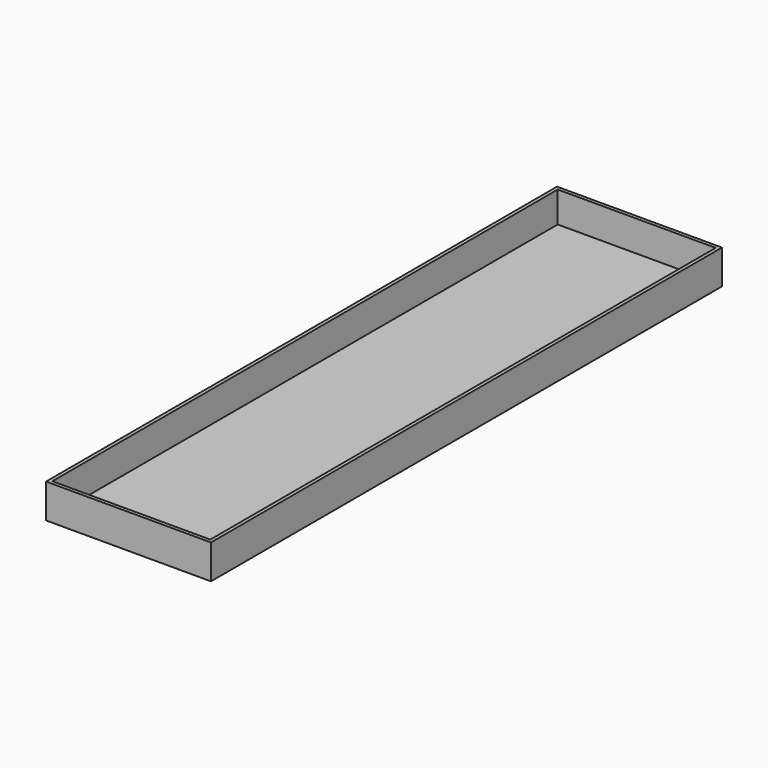
from build123d import *

# Parameters (mm, degrees)
F0_W     = 284
F0_H     = 59
F1_DEPTH = 1100
F3_DEPTH = 59
F4_W     = 272
F4_H     = 1088
F5_DEPTH = 53


with BuildPart() as f1:
    # F0 (on Front) → F1 (new body)
    with BuildSketch(Plane.XZ):
        Rectangle(F0_W, F0_H)
    extrude(amount=F1_DEPTH)

    # F2 (on face) → F3 (cut)
    with BuildSketch(Plane.XY.offset(29.5)):
        Polygon((148, 6), (-136, 6), (-136, 0), (142, 0), (142, -1094), (148, -1094), align=None)
    extrude(amount=-F3_DEPTH, mode=Mode.SUBTRACT)

    # F4 (on face) → F5 (cut)
    with BuildSketch(Plane.XY.offset(29.5)):
        with Locations((0, -550)):
            Rectangle(F4_W, F4_H)
    extrude(amount=-F5_DEPTH, mode=Mode.SUBTRACT)


solid = f1.part
